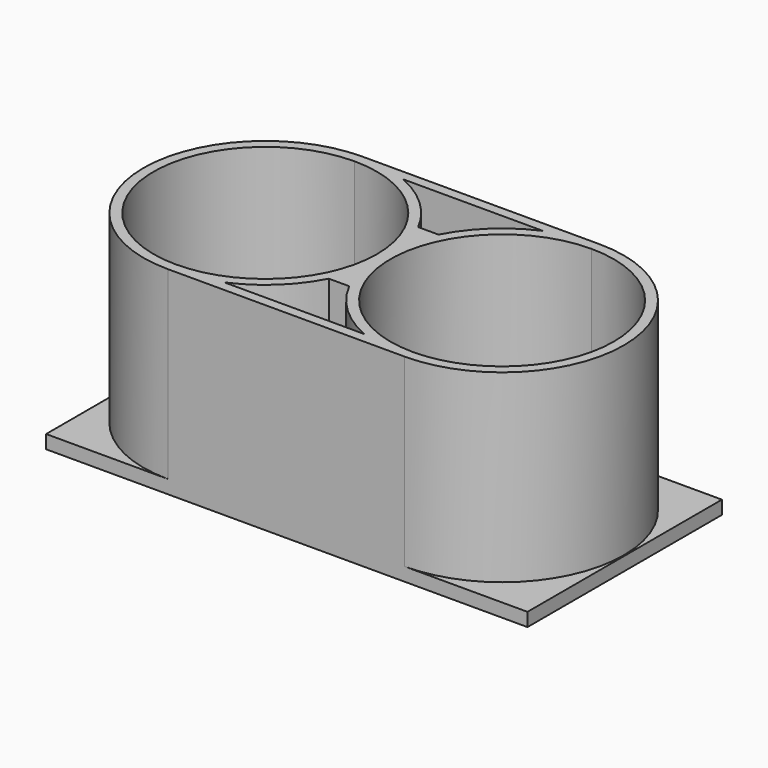
from build123d import *

# Parameters (mm, degrees)
F2_START = 25
F2_DEPTH = 75
F3_DEPTH = 55
F5_DEPTH = 4


with BuildPart() as f2:
    # F1 (on Right) → F2 (new body)
    with BuildSketch(Plane.YZ.offset(F2_START)):
        Polygon((-16.625, 0), (0, 0), (16.625, 0), (16.625, 20), (-16.625, 20), align=None)
    extrude(amount=F2_DEPTH)

    # F0 (on Top) → F3 (join)
    with BuildSketch(Plane.XY):
        with BuildLine():
            ThreePointArc((33.25, 36.25), (40.6239406019, 35.4920765806), (47.6895290782, 33.25))
            Line((47.6895290782, 33.25), (89.3104709218, 33.25))
            ThreePointArc((89.3104709218, 33.25), (96.3760593981, 35.4920765806), (103.75, 36.25))
            Line((103.75, 36.25), (33.25, 36.25))
        make_face()
        with BuildLine():
            ThreePointArc((65.4629147238, 16.625), (58.0130830961, 26.4736135723), (47.6895290782, 33.25))
            ThreePointArc((47.6895290782, 33.25), (40.6239406019, 35.4920765806), (33.25, 36.25))
            ThreePointArc((33.25, 36.25), (-3, 0), (33.25, -36.25))
            ThreePointArc((33.25, -36.25), (40.6239406019, -35.4920765806), (47.6895290782, -33.25))
            ThreePointArc((47.6895290782, -33.25), (58.0130830961, -26.4736135723), (65.4629147238, -16.625))
            Line((65.4629147238, -16.625), (71.5370852762, -16.625))
            ThreePointArc((71.5370852762, -16.625), (78.9869169039, -26.4736135723), (89.3104709218, -33.25))
            ThreePointArc((89.3104709218, -33.25), (96.3760593981, -35.4920765806), (103.75, -36.25))
            ThreePointArc((103.75, -36.25), (140, 0), (103.75, 36.25))
            ThreePointArc((103.75, 36.25), (96.3760593981, 35.4920765806), (89.3104709218, 33.25))
            ThreePointArc((89.3104709218, 33.25), (78.9869169039, 26.4736135723), (71.5370852762, 16.625))
            Line((71.5370852762, 16.625), (65.4629147238, 16.625))
        make_face()
        with BuildLine():
            ThreePointArc((33.25, -33.25), (0, 0), (33.25, 33.25))
            ThreePointArc((33.25, 33.25), (56.7613004745, 23.5113004745), (66.5, 0))
            ThreePointArc((66.5, 0), (56.7613004745, -23.5113004745), (33.25, -33.25))
        make_face(mode=Mode.SUBTRACT)
        with BuildLine():
            ThreePointArc((137, 0), (127.2613004745, -23.5113004745), (103.75, -33.25))
            ThreePointArc((103.75, -33.25), (70.5, 0), (103.75, 33.25))
            ThreePointArc((103.75, 33.25), (127.2613004745, 23.5113004745), (137, 0))
        make_face(mode=Mode.SUBTRACT)
        with BuildLine():
            ThreePointArc((47.6895290782, -33.25), (40.6239406019, -35.4920765806), (33.25, -36.25))
            Line((33.25, -36.25), (103.75, -36.25))
            ThreePointArc((103.75, -36.25), (96.3760593981, -35.4920765806), (89.3104709218, -33.25))
            Line((89.3104709218, -33.25), (47.6895290782, -33.25))
        make_face()
    extrude(amount=F3_DEPTH)

    # F4 (on face) → F5 (join)
    with BuildSketch(Plane(origin=(0, 0, 0), x_dir=(1, 0, 0), z_dir=(0, 0, -1))):
        with BuildLine():
            Line((103.75, 36.25), (33.25, 36.25))
            ThreePointArc((33.25, 36.25), (7.6173792195, 25.6326208556), (-3, 1.062e-07))
            ThreePointArc((-3, 1.062e-07), (6.493803342, -24.4574822989), (30.0023968175, -36.1042320728))
            Line((30.0023968175, -36.1042320728), (106.9976031825, -36.1042320728))
            ThreePointArc((106.9976031825, -36.1042320728), (139.9635396823, 1.6254364583), (103.75, 36.25))
        make_face()
        with BuildLine():
            ThreePointArc((47.6895290782, -33.25), (58.0130830961, -26.4736135723), (65.4629147238, -16.625))
            Line((65.4629147238, -16.625), (71.5370852762, -16.625))
            ThreePointArc((71.5370852762, -16.625), (78.9869169039, -26.4736135723), (89.3104709218, -33.25))
            Line((89.3104709218, -33.25), (47.6895290782, -33.25))
        make_face(mode=Mode.SUBTRACT)
        with BuildLine():
            Line((100, 16.625), (74.9546553242, 16.625))
            ThreePointArc((74.9546553242, 16.625), (132.5453446758, 16.625), (103.75, -33.25))
            ThreePointArc((103.75, -33.25), (87.125, -28.7953446758), (74.9546553242, -16.625))
            Line((74.9546553242, -16.625), (100, -16.625))
            Line((100, -16.625), (100, 16.625))
        make_face(mode=Mode.SUBTRACT)
        with BuildLine():
            Line((25, -16.625), (62.0453446758, -16.625))
            ThreePointArc((62.0453446758, -16.625), (4.4546553242, -16.625), (33.25, 33.25))
            ThreePointArc((33.25, 33.25), (49.875, 28.7953446758), (62.0453446758, 16.625))
            Line((62.0453446758, 16.625), (25, 16.625))
            Line((25, 16.625), (25, -16.625))
        make_face(mode=Mode.SUBTRACT)
        with BuildLine():
            ThreePointArc((89.3104709218, 33.25), (78.9869169039, 26.4736135723), (71.5370852762, 16.625))
            Line((71.5370852762, 16.625), (65.4629147238, 16.625))
            ThreePointArc((65.4629147238, 16.625), (58.0130830961, 26.4736135723), (47.6895290782, 33.25))
            Line((47.6895290782, 33.25), (89.3104709218, 33.25))
        make_face(mode=Mode.SUBTRACT)
        with BuildLine():
            Line((33.25, 36.25), (-3, 36.25))
            Line((-3, 36.25), (-3, 1.062e-07))
            ThreePointArc((-3, 1.062e-07), (7.6173792195, 25.6326208556), (33.25, 36.25))
        make_face()
        with BuildLine():
            Line((140.309497714, 36.25), (103.75, 36.25))
            ThreePointArc((103.75, 36.25), (139.9635396823, 1.6254364583), (106.9976031825, -36.1042320728))
            Line((106.9976031825, -36.1042320728), (140.309497714, -36.1042320728))
            Line((140.309497714, -36.1042320728), (140.309497714, 36.25))
        make_face()
        with BuildLine():
            Line((65.4629147238, 16.625), (71.5370852762, 16.625))
            ThreePointArc((71.5370852762, 16.625), (78.9869169039, 26.4736135723), (89.3104709218, 33.25))
            Line((89.3104709218, 33.25), (47.6895290782, 33.25))
            ThreePointArc((47.6895290782, 33.25), (58.0130830961, 26.4736135723), (65.4629147238, 16.625))
        make_face()
        with BuildLine():
            ThreePointArc((33.25, 33.25), (4.4546553242, -16.625), (62.0453446758, -16.625))
            Line((62.0453446758, -16.625), (25, -16.625))
            Line((25, -16.625), (25, 16.625))
            Line((25, 16.625), (62.0453446758, 16.625))
            ThreePointArc((62.0453446758, 16.625), (49.875, 28.7953446758), (33.25, 33.25))
        make_face()
        with BuildLine():
            ThreePointArc((103.75, -33.25), (132.5453446758, 16.625), (74.9546553242, 16.625))
            Line((74.9546553242, 16.625), (100, 16.625))
            Line((100, 16.625), (100, -16.625))
            Line((100, -16.625), (74.9546553242, -16.625))
            ThreePointArc((74.9546553242, -16.625), (87.125, -28.7953446758), (103.75, -33.25))
        make_face()
        with BuildLine():
            Line((71.5370852762, -16.625), (65.4629147238, -16.625))
            ThreePointArc((65.4629147238, -16.625), (58.0130830961, -26.4736135723), (47.6895290782, -33.25))
            Line((47.6895290782, -33.25), (89.3104709218, -33.25))
            ThreePointArc((89.3104709218, -33.25), (78.9869169039, -26.4736135723), (71.5370852762, -16.625))
        make_face()
        with BuildLine():
            ThreePointArc((30.0023968175, -36.1042320728), (6.493803342, -24.4574822989), (-3, 1.062e-07))
            Line((-3, 1.062e-07), (-3, -36.1042320728))
            Line((-3, -36.1042320728), (30.0023968175, -36.1042320728))
        make_face()
    extrude(amount=F5_DEPTH)


solid = f2.part
